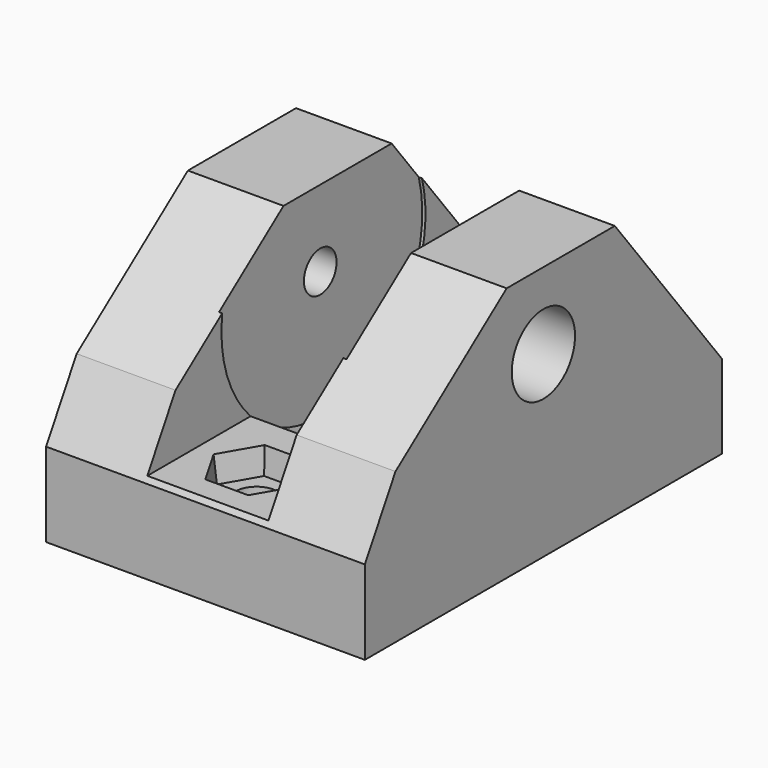
from build123d import *

# Parameters (mm, degrees)
SKETCH_R          = 1.6
PAD_DEPTH         = 12.5
SKETCH001_W       = 9.5
SKETCH001_H       = 14
POCKET_DEPTH      = 17.501
POCKET_DEPTH_BACK = -17.501
SKETCH011_R       = 1.5
POCKET001_DEPTH   = 1
SKETCH012_W       = 0.5
SKETCH012_H       = 1
POCKET002_DEPTH   = 8
SKETCH013_W       = 3
SKETCH013_H       = 0.5
POCKET003_DEPTH   = 17
SKETCH014_W       = 3
SKETCH014_H       = 0.5
POCKET004_DEPTH   = 15


with BuildPart() as part:
    # Sketch → Pad (new body, symmetric)
    with BuildSketch(Plane.YZ):
        Polygon((-17.5, 0), (-17.5, 6.590108), (-14.5, 11.786261), (-3.6, 20), (7, 20), (17.5, 6.560613), (17.5, 0), align=None)
        with Locations((0, 14)):
            Circle(SKETCH_R, mode=Mode.SUBTRACT)
    extrude(amount=PAD_DEPTH, both=True)

    # Sketch001 → Pocket (cut, two sides)
    with BuildSketch(Plane.XZ) as pocket_sk:
        with Locations((0, 14)):
            Rectangle(SKETCH001_W, SKETCH001_H)
    extrude(amount=-POCKET_DEPTH, mode=Mode.SUBTRACT)
    extrude(pocket_sk.sketch, amount=-POCKET_DEPTH_BACK, mode=Mode.SUBTRACT)

    # Sketch002 → Groove (revolve, cut)
    with BuildSketch(Plane.XY.offset(14)):
        Polygon((-5, 0), (12.5, 0), (12.5, 3.1), (8, 3.1), (8, 1.6), (5, 1.6), (5, 10), (-5, 10), align=None)
    revolve(axis=Axis((-5, 0, 14), (1, 0, 0)), mode=Mode.SUBTRACT)

    # Sketch004 → SubtractiveLoft section 0
    with BuildSketch(Plane.YZ.offset(-10)):
        Polygon((-1.549897, 16.6845), (-3.099794, 14), (-1.549897, 11.3155), (1.549897, 11.3155), (3.099794, 14), (1.549897, 16.6845), align=None)
    # Sketch003 → SubtractiveLoft section 1
    with BuildSketch(Plane.YZ.offset(-12.5)):
        Polygon((-3.66271, 14), (-1.831355, 10.828), (1.831355, 10.828), (3.66271, 14), (1.831355, 17.172), (-1.831355, 17.172), align=None)
    loft(mode=Mode.SUBTRACT)

    # Sketch006 → SubtractiveLoft001 section 0
    with BuildSketch(Plane.XY.offset(5)):
        Polygon((-1.550185, -9.815), (-3.100371, -12.5), (-1.550185, -15.185), (1.550185, -15.185), (3.100371, -12.5), (1.550185, -9.815), align=None)
    # Sketch005 → SubtractiveLoft001 section 1
    with BuildSketch(Plane.XY.offset(7)):
        Polygon((-1.682976, -9.585), (-3.365952, -12.5), (-1.682976, -15.415), (1.682976, -15.415), (3.365952, -12.5), (1.682976, -9.585), align=None)
    loft(mode=Mode.SUBTRACT)

    # Sketch007 → Groove001 (revolve, cut)
    with BuildSketch(Plane.XZ.offset(12.5)):
        Polygon((0, 7), (-1.65, 7), (-1.65, 1), (-2.074475, 0), (0, 0), align=None)
    revolve(axis=Axis((0, -12.5, 0), (0, 0, 1)), mode=Mode.SUBTRACT)

    # Sketch008 → SubtractiveLoft002 section 0
    with BuildSketch(Plane.XY.offset(7)):
        Polygon((-1.682976, 16.415), (-3.365952, 13.5), (-1.682976, 10.585), (1.682976, 10.585), (3.365952, 13.5), (1.682976, 16.415), align=None)
    # Sketch009 → SubtractiveLoft002 section 1
    with BuildSketch(Plane.XY.offset(5)):
        Polygon((-1.550185, 16.185), (-3.100371, 13.5), (-1.550185, 10.815), (1.550185, 10.815), (3.100371, 13.5), (1.550185, 16.185), align=None)
    loft(mode=Mode.SUBTRACT)

    # Sketch010 → Groove002 (revolve, cut)
    with BuildSketch(Plane.XZ.offset(-13.5)):
        Polygon((0, 7), (-1.65, 7), (-1.65, 1), (-2.074475, 0), (0, 0), align=None)
    revolve(axis=Axis((0, 13.5, 0), (0, 0, 1)), mode=Mode.SUBTRACT)

    # Sketch011 (on Face6 of Groove002) → Pocket001 (cut)
    with BuildSketch(Plane.ZX.offset(17.5)):
        with Locations((3.5, 8.5)):
            Circle(SKETCH011_R)
    extrude(amount=-POCKET001_DEPTH, mode=Mode.SUBTRACT)

    # Sketch012 → Pocket002 (cut, symmetric)
    with BuildSketch(Plane.YZ):
        with Locations((-9.25, 1.5)):
            Rectangle(SKETCH012_W, SKETCH012_H)
        with Locations((7.75, 1.5)):
            Rectangle(SKETCH012_W, SKETCH012_H)
    extrude(amount=POCKET002_DEPTH, both=True, mode=Mode.SUBTRACT)

    # Sketch013 → Pocket003 (cut)
    with BuildSketch(Plane.XY.offset(1)):
        with Locations((-8.5, 4.75)):
            Rectangle(SKETCH013_W, SKETCH013_H)
        with Locations((9.5, 4.75)):
            Rectangle(SKETCH013_W, SKETCH013_H)
        with Locations((9.5, -4.25)):
            Rectangle(SKETCH013_W, SKETCH013_H)
        with Locations((-8.5, -4.25)):
            Rectangle(SKETCH013_W, SKETCH013_H)
    extrude(amount=POCKET003_DEPTH, mode=Mode.SUBTRACT)

    # Sketch014 → Pocket004 (cut)
    with BuildSketch(Plane.XY.offset(1)):
        with Locations((-8.5, 6.75)):
            Rectangle(SKETCH014_W, SKETCH014_H)
        with Locations((9.5, 6.75)):
            Rectangle(SKETCH014_W, SKETCH014_H)
        with Locations((9.5, -6.25)):
            Rectangle(SKETCH014_W, SKETCH014_H)
        with Locations((-8.5, -6.25)):
            Rectangle(SKETCH014_W, SKETCH014_H)
    extrude(amount=POCKET004_DEPTH, mode=Mode.SUBTRACT)


solid = part.part
